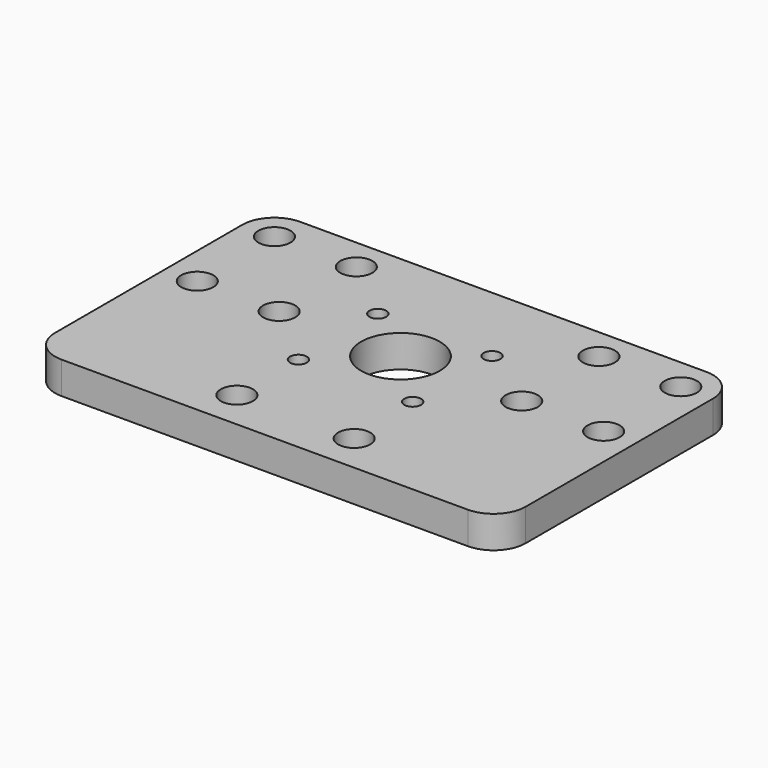
from build123d import *

# Parameters (mm, degrees)
F0_R     = 3.175
F0_R_2   = 1.651
F0_R_3   = 7.77875
F1_DEPTH = 6.35


with BuildPart() as f1:
    # F0 (on Top) → F1 (new body)
    with BuildSketch(Plane.XY):
        with BuildLine():
            Line((86.614, 0), (6.35, 0))
            ThreePointArc((6.35, 0), (1.859872, -1.859872), (0, -6.35))
            Line((0, -6.35), (0, -52.578))
            ThreePointArc((0, -52.578), (1.859872, -57.068128), (6.35, -58.928))
            Line((6.35, -58.928), (86.614, -58.928))
            ThreePointArc((86.614, -58.928), (91.104128, -57.068128), (92.964, -52.578))
            Line((92.964, -52.578), (92.964, -6.35))
            ThreePointArc((92.964, -6.35), (91.104128, -1.859872), (86.614, 0))
        make_face()
        with Locations((34.8996, -51.308)):
            Circle(F0_R, mode=Mode.SUBTRACT)
        with Locations((34.8996, -36.11674)):
            Circle(F0_R_2, mode=Mode.SUBTRACT)
        with Locations((58.0644, -51.308)):
            Circle(F0_R, mode=Mode.SUBTRACT)
        with Locations((57.463324, -36.11674)):
            Circle(F0_R_2, mode=Mode.SUBTRACT)
        with Locations((6.35, -25.4)):
            Circle(F0_R, mode=Mode.SUBTRACT)
        with Locations((22.52401, -25.399999)):
            Circle(F0_R, mode=Mode.SUBTRACT)
        with Locations((34.8996, -16.51)):
            Circle(F0_R_2, mode=Mode.SUBTRACT)
        with Locations((6.35, -6.35)):
            Circle(F0_R, mode=Mode.SUBTRACT)
        with Locations((22.5298, -6.35)):
            Circle(F0_R, mode=Mode.SUBTRACT)
        with Locations((46.482, -25.4)):
            Circle(F0_R_3, mode=Mode.SUBTRACT)
        with Locations((57.463324, -16.51)):
            Circle(F0_R_2, mode=Mode.SUBTRACT)
        with Locations((70.4342, -25.4)):
            Circle(F0_R, mode=Mode.SUBTRACT)
        with Locations((86.614, -25.4)):
            Circle(F0_R, mode=Mode.SUBTRACT)
        with Locations((70.4342, -6.35)):
            Circle(F0_R, mode=Mode.SUBTRACT)
        with Locations((86.614, -6.35)):
            Circle(F0_R, mode=Mode.SUBTRACT)
    extrude(amount=F1_DEPTH)


solid = f1.part
